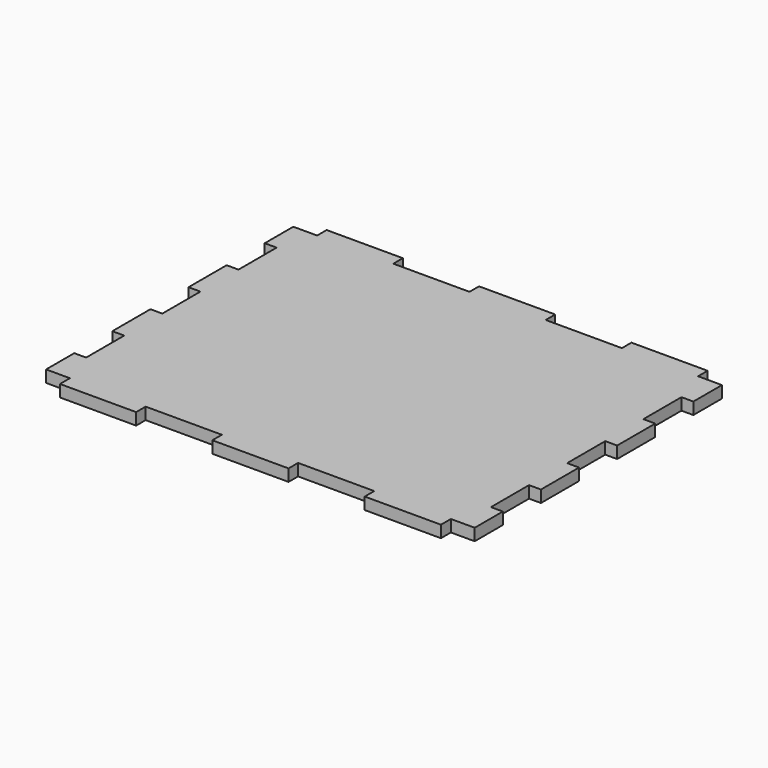
from build123d import *

# Parameters (mm, degrees)
F1_DEPTH = 6.35


with BuildPart() as f1:
    # F0 (on Top) → F1 (new body)
    with BuildSketch(Plane.XY):
        Polygon((0, 0), (0, 88.9), (-20.32, 88.9), (-20.32, 82.55), (-60.96, 82.55), (-60.96, 88.9), (-101.6, 88.9), (-101.6, 82.55), (-114.3, 82.55), (-114.3, 63.5), (-107.95, 63.5), (-107.95, 38.1), (-114.3, 38.1), (-114.3, 12.7), (-107.95, 12.7), (-107.95, 0), align=None)
        Polygon((101.6, 82.55), (101.6, 88.9), (60.96, 88.9), (60.96, 82.55), (20.32, 82.55), (20.32, 88.9), (0, 88.9), (0, 0), (107.95, 0), (107.95, 12.7), (114.3, 12.7), (114.3, 38.1), (107.95, 38.1), (107.95, 63.5), (114.3, 63.5), (114.3, 82.55), align=None)
        Polygon((107.95, 0), (0, 0), (0, -88.9), (20.32, -88.9), (20.32, -82.55), (60.96, -82.55), (60.96, -88.9), (101.6, -88.9), (101.6, -82.55), (101.6, -82.2625234723), (114.3, -82.2625234723), (114.3, -63.5), (107.95, -63.5), (107.95, -38.1), (114.3, -38.1), (114.3, -12.7), (107.95, -12.7), align=None)
        Polygon((0, -88.9), (0, 0), (-107.95, 0), (-107.95, -12.7), (-114.3, -12.7), (-114.3, -38.1), (-107.95, -38.1), (-107.95, -63.5), (-114.3, -63.5), (-114.3, -82.2625234723), (-101.6, -82.2625234723), (-101.6, -88.9), (-60.96, -88.9), (-60.96, -82.55), (-20.32, -82.55), (-20.32, -88.9), align=None)
    extrude(amount=F1_DEPTH)


solid = f1.part
